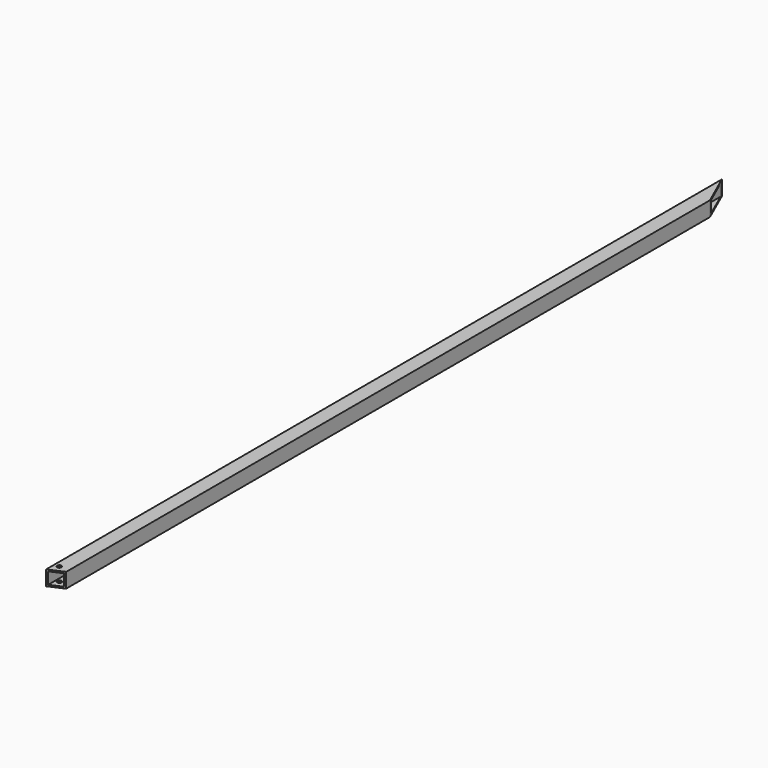
from build123d import *

# Parameters (mm, degrees)
F0_W          = 50
F0_H          = 50
F0_W_2        = 40
F0_H_2        = 40
F1_DEPTH      = 3000
F3_DEPTH      = 25.001
F3_DEPTH_BACK = 25.001
F4_R          = 7.5
F5_DEPTH      = 50.001


with BuildPart() as f1:
    # F0 (on Front) → F1 (new body)
    with BuildSketch(Plane.XZ):
        Rectangle(F0_W, F0_H)
        Rectangle(F0_W_2, F0_H_2, mode=Mode.SUBTRACT)
    extrude(amount=-F1_DEPTH)

    # F2 (on Top) → F3 (cut, two sides)
    with BuildSketch(Plane.XY) as f3_sk:
        Polygon((-25, 3000), (-25, 2849.7744184879), (25, 2736.739757117), (25, 3000), align=None)
        Polygon((25, 22.1171096519), (-25, 0), (25, 0), align=None)
    extrude(amount=-F3_DEPTH, mode=Mode.SUBTRACT)
    extrude(f3_sk.sketch, amount=F3_DEPTH_BACK, mode=Mode.SUBTRACT)

    # F4 (on face) → F5 (cut, through all)
    with BuildSketch(Plane.XY.offset(25)):
        with Locations((-7.9764017243, 34.8668911918)):
            Circle(F4_R)
    extrude(amount=-F5_DEPTH, mode=Mode.SUBTRACT)


solid = f1.part
